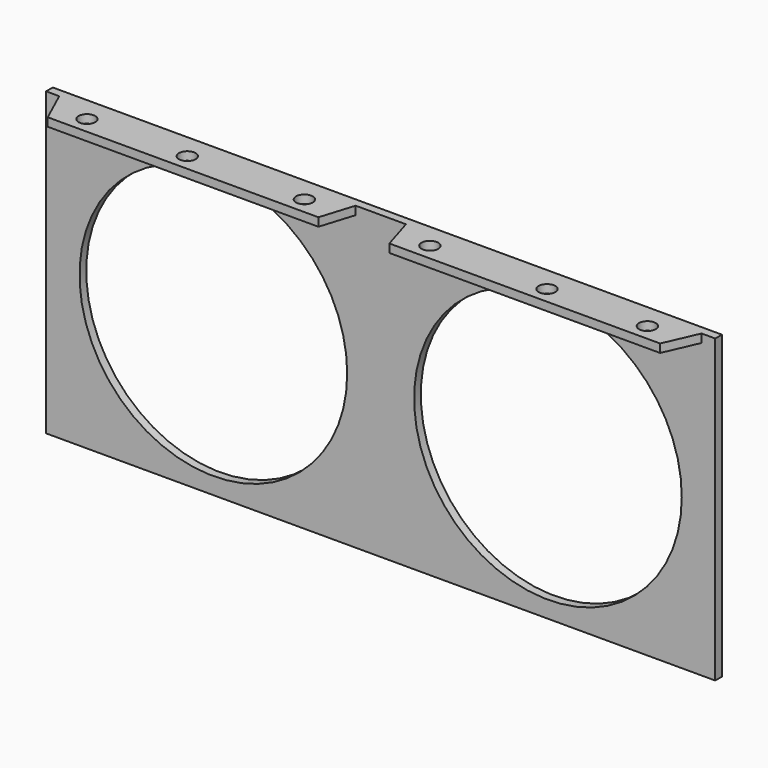
from build123d import *

# Parameters (mm, degrees)
F0_W     = 254
F0_H     = 114.3
F0_R     = 50.8
F1_DEPTH = 3.175
F2_W     = 112.5140171498
F2_H     = 3.175
F2_W_2   = 112.2281569988
F3_DEPTH = 12.7
F5_DEPTH = 25.4
F7_DEPTH = 25.4


with BuildPart() as f1:
    # F0 (on Front) → F1 (new body)
    with BuildSketch(Plane.XZ):
        Rectangle(F0_W, F0_H)
        with Locations((-63.5, 0)):
            Circle(F0_R, mode=Mode.SUBTRACT)
        with Locations((63.5, 0)):
            Circle(F0_R, mode=Mode.SUBTRACT)
    extrude(amount=F1_DEPTH)

    # F2 (on face) → F3 (join)
    with BuildSketch(Plane.XZ.offset(3.175)):
        with Locations((-65.7536098734, 55.5625)):
            Rectangle(F2_W, F2_H)
        with Locations((65.7025436531, 55.5625)):
            Rectangle(F2_W_2, F2_H)
    extrude(amount=F3_DEPTH)

    # F4 (on face) → F5 (cut)
    with BuildSketch(Plane.XY.offset(57.15)):
        Polygon((-116.2076666951, -15.875), (-122.0106184483, -3.175), (-122.0106184483, -15.875), align=None)
        Polygon((-9.4966012985, -15.875), (-9.4966012985, -3.175), (-13.4629756212, -15.875), align=None)
        Polygon((13.4817082435, -15.875), (9.5884651538, -3.175), (9.5884651538, -15.875), align=None)
        Polygon((116.2402704358, -15.875), (121.8166221525, -15.875), (121.8166221525, -3.175), align=None)
    extrude(amount=-F5_DEPTH, mode=Mode.SUBTRACT)

    # F6 (on face) → F7 (cut)
    with BuildSketch(Plane.XY.offset(57.15)):
        with BuildLine():
            ThreePointArc((-103.2341425717, -9.525), (-106.4091425717, -6.35), (-109.5841425717, -9.525))
            Line((-109.5841425717, -9.525), (-103.2341425717, -9.525))
        make_face()
        with BuildLine():
            ThreePointArc((109.5034462942, -9.525), (106.3284462942, -6.35), (103.1534462942, -9.525))
            Line((103.1534462942, -9.525), (109.5034462942, -9.525))
        make_face()
        with BuildLine():
            Line((109.5034462942, -9.525), (103.1534462942, -9.525))
            ThreePointArc((103.1534462942, -9.525), (106.3284462942, -12.7), (109.5034462942, -9.525))
        make_face()
        with BuildLine():
            ThreePointArc((71.4034462942, -9.525), (68.2284462942, -6.35), (65.0534462942, -9.525))
            Line((65.0534462942, -9.525), (71.4034462942, -9.525))
        make_face()
        with BuildLine():
            Line((71.4034462942, -9.525), (65.0534462942, -9.525))
            ThreePointArc((65.0534462942, -9.525), (68.2284462942, -12.7), (71.4034462942, -9.525))
        make_face()
        with BuildLine():
            ThreePointArc((26.9534462942, -9.525), (23.7784462942, -6.35), (20.6034462942, -9.525))
            Line((20.6034462942, -9.525), (26.9534462942, -9.525))
        make_face()
        with BuildLine():
            Line((26.9534462942, -9.525), (20.6034462942, -9.525))
            ThreePointArc((20.6034462942, -9.525), (23.7784462942, -12.7), (26.9534462942, -9.525))
        make_face()
        with BuildLine():
            ThreePointArc((-20.6841425717, -9.525), (-23.8591425717, -6.35), (-27.0341425717, -9.525))
            Line((-27.0341425717, -9.525), (-20.6841425717, -9.525))
        make_face()
        with BuildLine():
            Line((-20.6841425717, -9.525), (-27.0341425717, -9.525))
            ThreePointArc((-27.0341425717, -9.525), (-23.8591425717, -12.7), (-20.6841425717, -9.525))
        make_face()
        with BuildLine():
            ThreePointArc((-65.1341425717, -9.525), (-68.3091425717, -6.35), (-71.4841425717, -9.525))
            Line((-71.4841425717, -9.525), (-65.1341425717, -9.525))
        make_face()
        with BuildLine():
            Line((-65.1341425717, -9.525), (-71.4841425717, -9.525))
            ThreePointArc((-71.4841425717, -9.525), (-68.3091425717, -12.7), (-65.1341425717, -9.525))
        make_face()
        with BuildLine():
            Line((-103.2341425717, -9.525), (-109.5841425717, -9.525))
            ThreePointArc((-109.5841425717, -9.525), (-106.4091425717, -12.7), (-103.2341425717, -9.525))
        make_face()
    extrude(amount=-F7_DEPTH, mode=Mode.SUBTRACT)


solid = f1.part
